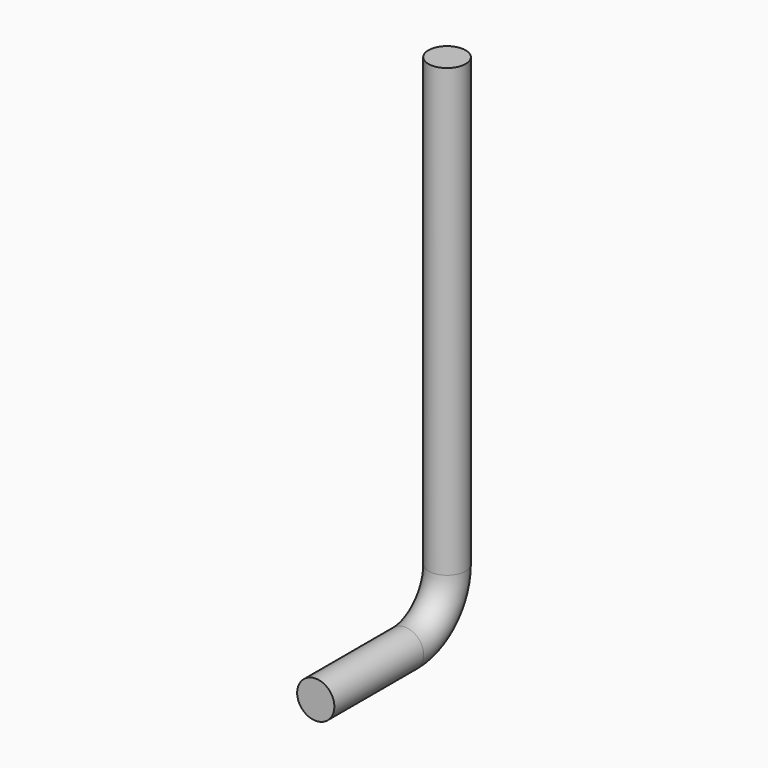
from build123d import *

# Parameters (mm, degrees)
F0_R      = 5
F1_DEPTH  = 30
F1_FACE_R = 5
F3_ANGLE  = 90
F4_DEPTH  = 120


with BuildPart() as f1:
    # F0 (on Front) → F1 (new body)
    with BuildSketch(Plane.XZ):
        Circle(F0_R)
    extrude(amount=F1_DEPTH)

    # F1_face (on face) → F3 (revolve)
    with BuildSketch(Plane(origin=(0, 0, 0), x_dir=(1, 0, 0), z_dir=(0, 1, 0))):
        Circle(F1_FACE_R)
    revolve(axis=Axis((-10.6502734125, 0, 14.0971038491), (1, 0, 0)), revolution_arc=F3_ANGLE)

    # F4 (add): a face of the model
    f4_faces = [f1.faces().sort_by_distance(p)[0] for p in [
        (0, 14.0971038491, 14.0971038491),
    ]]
    extrude(f4_faces, amount=F4_DEPTH)


solid = f1.part
